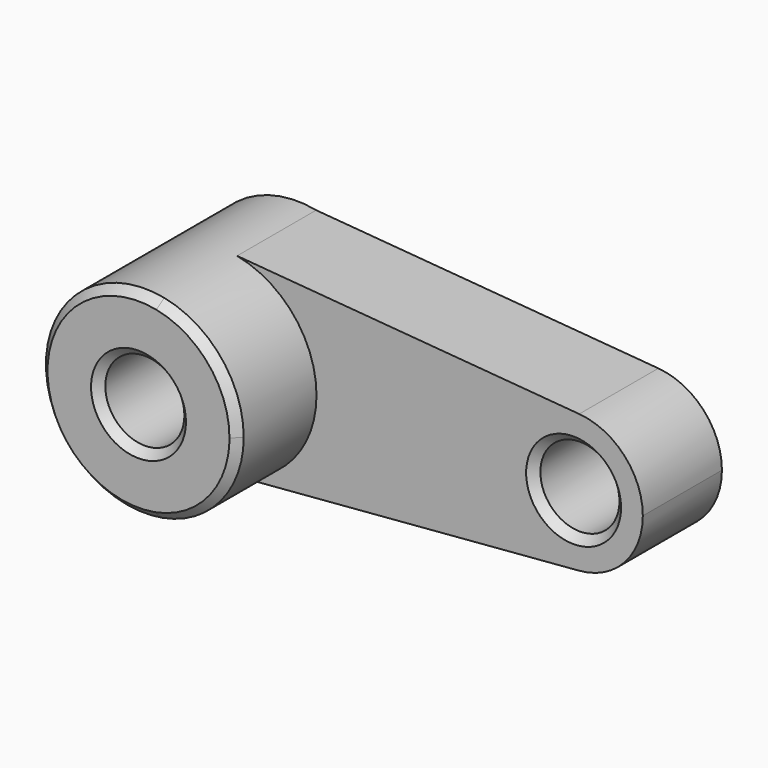
from build123d import *

# Parameters (mm, degrees)
F0_R     = 10
F1_DEPTH = 25
F2_DEPTH = 50
F3_SIZE  = 2


with BuildPart() as f1:
    # F0 (on Front) → F1 (new body)
    with BuildSketch(Plane.XZ):
        with BuildLine():
            ThreePointArc((107.5, 0), (102.8684682655, 11.8597017037), (91.4254257714, 17.4418508585))
            ThreePointArc((91.4254257714, 17.4418508585), (72.5000007528, -0.0051329802), (91.4356573743, -17.4410116651))
            ThreePointArc((91.4356573743, -17.4410116651), (102.8719463185, -11.8559267025), (107.5, 0))
        make_face()
        with Locations((90, 0)):
            Circle(F0_R, mode=Mode.SUBTRACT)
        with BuildLine():
            ThreePointArc((4.9169029747, 24.5117128153), (19.3380786839, 15.8442012363), (25, 0))
            ThreePointArc((25, 0), (19.185007985, -16.0292067369), (4.4451625108, -24.6016367393))
            Line((4.4451625108, -24.6016367393), (91.4356573743, -17.4410116651))
            ThreePointArc((91.4356573743, -17.4410116651), (72.5000007528, -0.0051329802), (91.4254257714, 17.4418508585))
            Line((91.4254257714, 17.4418508585), (4.9169029747, 24.5117128153))
        make_face()
        with BuildLine():
            ThreePointArc((4.4451625108, -24.6016367393), (19.185007985, -16.0292067369), (25, 0))
            ThreePointArc((25, 0), (19.3380786839, 15.8442012363), (4.9169029747, 24.5117128153))
            ThreePointArc((4.9169029747, 24.5117128153), (-24.9988468465, 0.2401173553), (4.4451625108, -24.6016367393))
        make_face()
        Circle(F0_R, mode=Mode.SUBTRACT)
    extrude(amount=F1_DEPTH)

    # F0 (on Front) → F2 (join)
    with BuildSketch(Plane.XZ):
        with BuildLine():
            ThreePointArc((4.4451625108, -24.6016367393), (19.185007985, -16.0292067369), (25, 0))
            ThreePointArc((25, 0), (19.3380786839, 15.8442012363), (4.9169029747, 24.5117128153))
            ThreePointArc((4.9169029747, 24.5117128153), (-24.9988468465, 0.2401173553), (4.4451625108, -24.6016367393))
        make_face()
        Circle(F0_R, mode=Mode.SUBTRACT)
    extrude(amount=F2_DEPTH)

    # F3
    f3_edges = [f1.edges().sort_by_distance(p)[0] for p in [
        (-10, -50, 0),
        (-4.445163, -50, 24.601637),
        (80, -25, 0),
    ]]
    chamfer(f3_edges, length=F3_SIZE)


solid = f1.part
